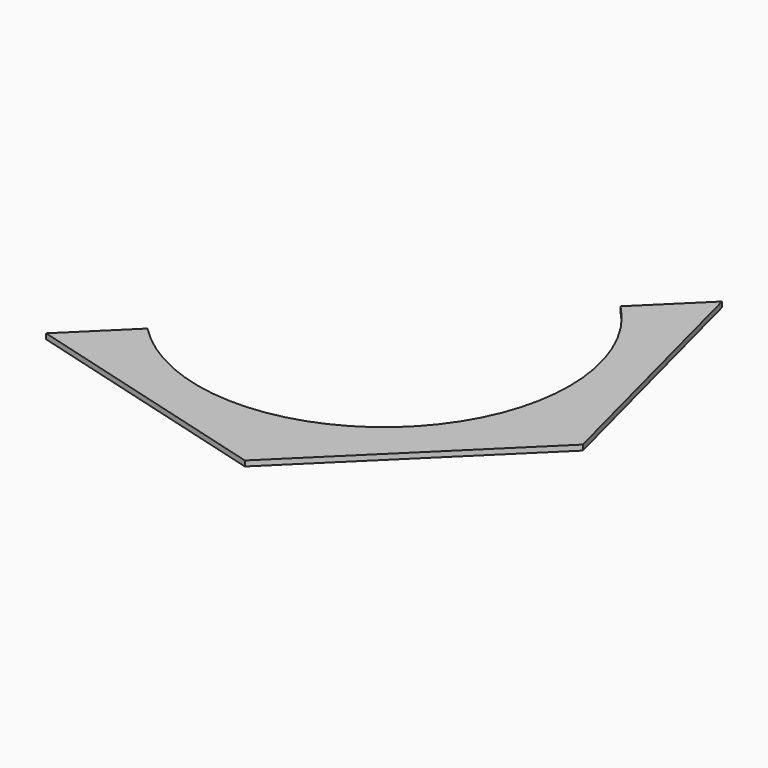
from build123d import *

# Parameters (mm, degrees)
F1_DEPTH = 2.54
F3_DEPTH = 25.4
F5_DEPTH = 25.4


with BuildPart() as f1:
    # F0 (on Top) → F1 (new body)
    with BuildSketch(Plane.XY):
        Polygon((31.749999, -122.967221), (122.367737, -33.987305), (90.617738, 88.979917), (-31.749999, 122.967221), (-122.367737, 33.987305), (-90.617738, -88.979917), align=None)
    extrude(amount=F1_DEPTH)

    # F2 (on face) → F3 (cut)
    with BuildSketch(Plane.XY.offset(2.54)):
        Polygon((-90.617738, -88.979917), (90.617738, 88.979917), (-31.749999, 122.967221), (-122.367737, 33.987305), align=None)
    extrude(amount=-F3_DEPTH, mode=Mode.SUBTRACT)

    # F4 (on face) → F5 (cut)
    with BuildSketch(Plane.XY.offset(2.54)):
        with BuildLine():
            ThreePointArc((-63.432417, -62.285942), (33.645714, -82.287155), (88.9, 0))
            ThreePointArc((88.9, 0), (82.287155, 33.645714), (63.432417, 62.285942))
            Line((63.432417, 62.285942), (-63.432417, -62.285942))
        make_face()
    extrude(amount=-F5_DEPTH, mode=Mode.SUBTRACT)


solid = f1.part
